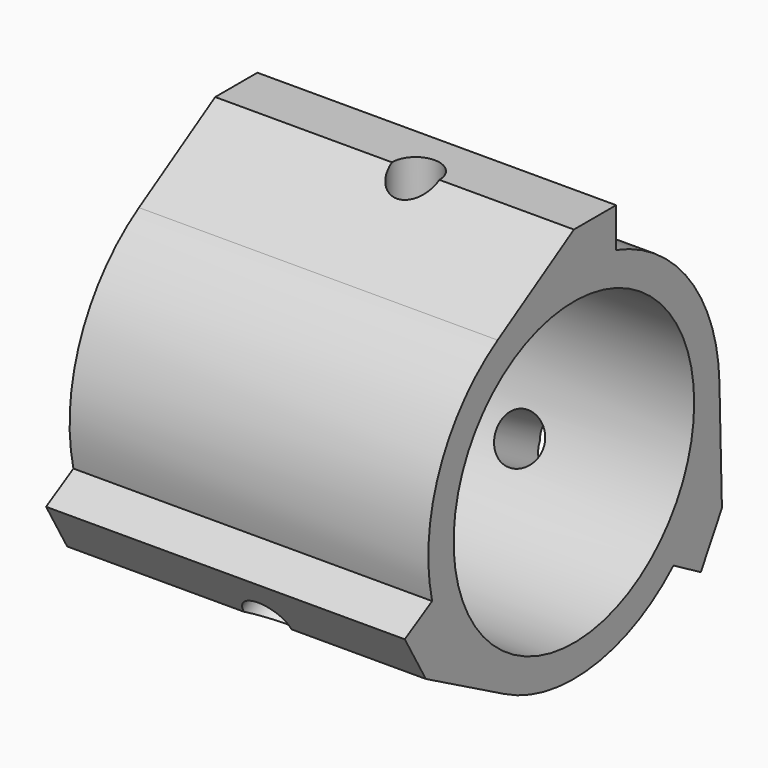
from build123d import *

# Parameters (mm, degrees)
F0_R      = 17.25
F0_R_2    = 14.25
F1_DEPTH  = 22
F0_R_3    = 5.25
F2_DEPTH  = 2
F0_R_4    = 1.85
F3_DEPTH  = 12
F5_DEPTH  = 34
F7_DEPTH  = 7.1787528205
F8_R      = 2.25
F10_DEPTH = 7.1787528205
F9_R      = 2.25
F11_DEPTH = 7.1787528205
F13_DEPTH = 25


with BuildPart() as f1:
    # F0 (on Right) → F1 (new body)
    with BuildSketch(Plane.YZ):
        Circle(F0_R)
        Circle(F0_R_2, mode=Mode.SUBTRACT)
    extrude(amount=F1_DEPTH)

    # F0 (on Right) → F2 (join)
    with BuildSketch(Plane.YZ):
        Circle(F0_R)
        Circle(F0_R_2, mode=Mode.SUBTRACT)
        Circle(F0_R_2)
        Circle(F0_R_3, mode=Mode.SUBTRACT)
    extrude(amount=F2_DEPTH)

    # F0 (on Right) → F3 (join)
    with BuildSketch(Plane.YZ):
        Circle(F0_R)
        Circle(F0_R_2, mode=Mode.SUBTRACT)
        Circle(F0_R_2)
        Circle(F0_R_3, mode=Mode.SUBTRACT)
        Circle(F0_R_3)
        Circle(F0_R_4, mode=Mode.SUBTRACT)
    extrude(amount=-F3_DEPTH)

    # F4 (on face) → F5 (join, through all)
    with BuildSketch(Plane(origin=(-12, 0, 0), x_dir=(0, -1, 0), z_dir=(-1, 0, 0))):
        with BuildLine():
            Line((-5, 20.25), (-5, 16.5094669811))
            ThreePointArc((-5, 16.5094669811), (2.2123277405, 17.1075452935), (9.0352533152, 14.6944444444))
            Line((9.0352533152, 14.6944444444), (0, 20.25))
            Line((0, 20.25), (-5, 20.25))
        make_face()
        with BuildLine():
            Line((-15.0370144266, -14.4551270189), (-11.7976178086, -12.5848605095))
            ThreePointArc((-11.7976178086, -12.5848605095), (-15.9217326908, -6.6378406219), (-17.243388841, 0.4775366783))
            Line((-17.243388841, 0.4775366783), (-17.5370144266, -10.125))
            Line((-17.5370144266, -10.125), (-15.0370144266, -14.4551270189))
        make_face()
        with BuildLine():
            Line((20.0370144266, -5.7948729811), (16.7976178086, -3.9246064716))
            ThreePointArc((16.7976178086, -3.9246064716), (13.7094049503, -10.4697046715), (8.2081355258, -15.1719811228))
            Line((8.2081355258, -15.1719811228), (17.5370144266, -10.125))
            Line((17.5370144266, -10.125), (20.0370144266, -5.7948729811))
        make_face()
    extrude(amount=-F5_DEPTH)

    # F6 (on face) → F7 (cut, up to face)
    with BuildSketch(Plane.XY.offset(20.25)):
        with BuildLine():
            ThreePointArc((4.75, 0), (7, -2.25), (9.25, 0))
            Line((9.25, 0), (4.75, 0))
        make_face()
        with BuildLine():
            Line((4.75, 0), (9.25, 0))
            ThreePointArc((9.25, 0), (7, 2.25), (4.75, 0))
        make_face()
    extrude(amount=-F7_DEPTH, mode=Mode.SUBTRACT)

    # F8 (on face) → F10 (cut, up to face)
    with BuildSketch(Plane(origin=(0, 17.5370144266, -10.125), x_dir=(-1, 0, 0), z_dir=(0, 0.8660254038, -0.5))):
        with Locations((-7, 0)):
            Circle(F8_R)
    extrude(amount=-F10_DEPTH, mode=Mode.SUBTRACT)

    # F9 (on face) → F11 (cut, up to face)
    with BuildSketch(Plane(origin=(0, -17.5370144266, -10.125), x_dir=(1, 0, 0), z_dir=(0, -0.8660254038, -0.5))):
        with Locations((7, 0)):
            Circle(F9_R)
    extrude(amount=-F11_DEPTH, mode=Mode.SUBTRACT)

    # F12 (on face) → F13 (cut)
    with BuildSketch(Plane(origin=(-12, 0, 0), x_dir=(0, -1, 0), z_dir=(-1, 0, 0))):
        with BuildLine():
            ThreePointArc((-4.8264703056, -0.4771628534), (-4.2002232084, 2.425), (-2, 4.418427322))
            Line((-2, 4.418427322), (-2, 12.0856319653))
            ThreePointArc((-2, 12.0856319653), (-10.6088111964, 6.125), (-11.4664643027, -4.3107651751))
            Line((-11.4664643027, -4.3107651751), (-4.8264703056, -0.4771628534))
        make_face()
        with BuildLine():
            ThreePointArc((2, 4.418427322), (4.0756901256, 2.6289256361), (4.85, 0))
            ThreePointArc((4.85, 0), (4.8441140048, -0.2388713227), (4.8264703056, -0.4771628534))
            Line((4.8264703056, -0.4771628534), (11.4664643027, -4.3107651751))
            ThreePointArc((11.4664643027, -4.3107651751), (12.0525243768, -2.1906976391), (12.25, 0))
            ThreePointArc((12.25, 0), (9.3424434705, 7.9234619959), (2, 12.0856319653))
            Line((2, 12.0856319653), (2, 4.418427322))
        make_face()
        with BuildLine():
            Line((9.4664643027, -7.7748667902), (2.8264703056, -3.9412644686))
            ThreePointArc((2.8264703056, -3.9412644686), (0, -4.85), (-2.8264703056, -3.9412644686))
            Line((-2.8264703056, -3.9412644686), (-9.4664643027, -7.7748667902))
            ThreePointArc((-9.4664643027, -7.7748667902), (0, -12.25), (9.4664643027, -7.7748667902))
        make_face()
    extrude(amount=-F13_DEPTH, mode=Mode.SUBTRACT)


solid = f1.part
